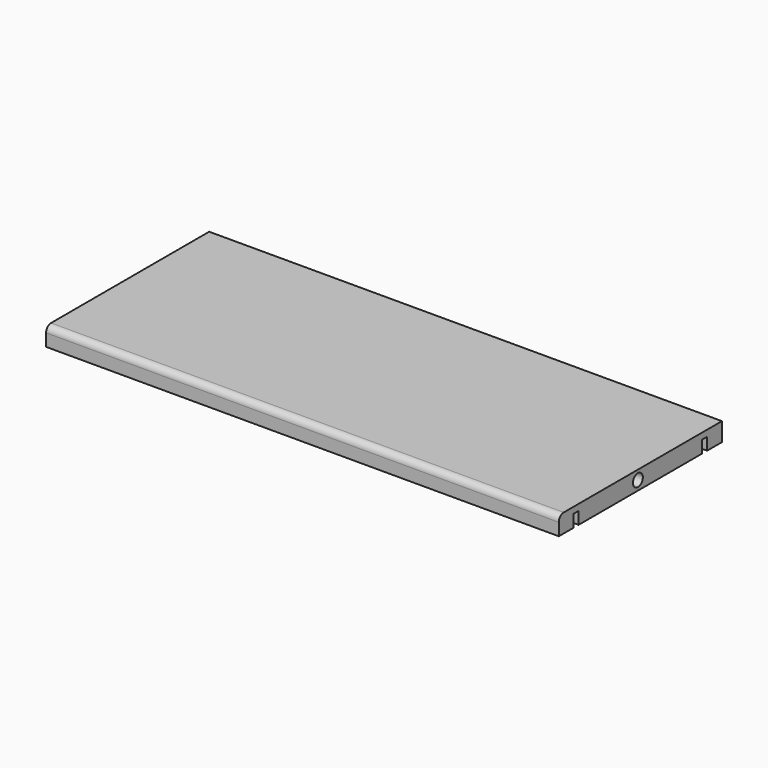
from build123d import *

# Parameters (mm, degrees)
F0_W     = 83
F0_H     = 33
F1_DEPTH = 3
F2_W     = 1
F2_H     = 2
F3_DEPTH = 83.001
F4_W     = 2.98905
F4_H     = 25
F5_DEPTH = 2
F6_R     = 1
F7_DEPTH = 25
F8_R     = 1


with BuildPart() as f1:
    # F0 (on Top) → F1 (new body)
    with BuildSketch(Plane.XY):
        with Locations((-19.543798, -15.713293)):
            Rectangle(F0_W, F0_H)
    extrude(amount=F1_DEPTH)

    # F2 (on face) → F3 (cut, through all)
    with BuildSketch(Plane.YZ.offset(21.956202)):
        with Locations((-28.713293, 1)):
            Rectangle(F2_W, F2_H)
        with Locations((-2.713293, 1)):
            Rectangle(F2_W, F2_H)
    extrude(amount=-F3_DEPTH, mode=Mode.SUBTRACT)

    # F4 (on face) → F5 (join)
    with BuildSketch(Plane(origin=(0, 0, 0), x_dir=(1, 0, 0), z_dir=(0, 0, -1))):
        with Locations((-45.065695, 15.713293)):
            Rectangle(F4_W, F4_H)
    extrude(amount=-F5_DEPTH)

    # F6 (on face) → F7 (cut)
    with BuildSketch(Plane.YZ.offset(21.956202)):
        with Locations((-16.213293, 1.5)):
            Circle(F6_R)
    extrude(amount=-F7_DEPTH, mode=Mode.SUBTRACT)

    # F8
    f8_edges = [f1.edges().sort_by_distance(p)[0] for p in [
        (-19.543798, -32.213293, 3),
    ]]
    fillet(f8_edges, radius=F8_R)


solid = f1.part
